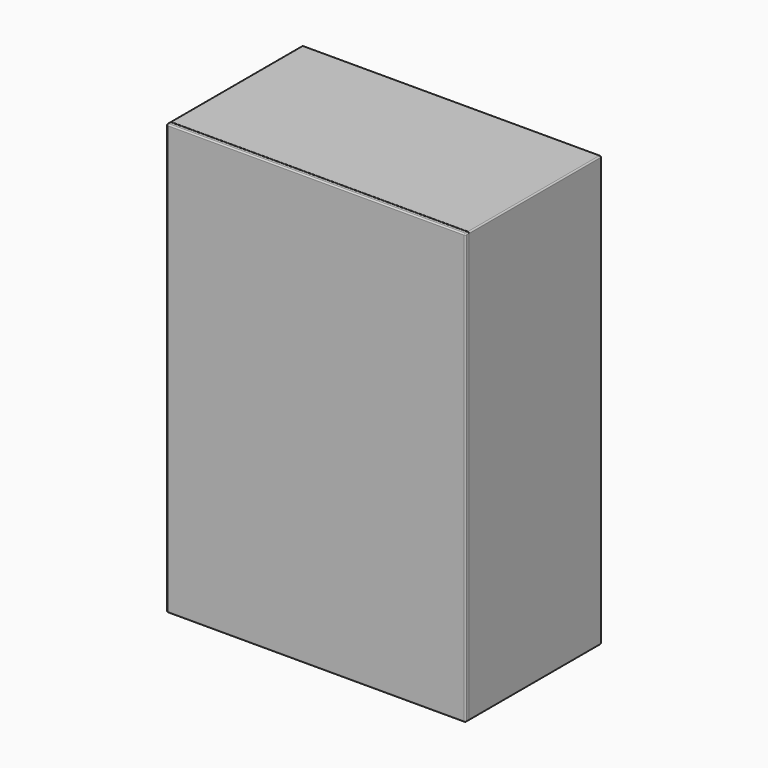
from build123d import *

# Parameters (mm, degrees)
F0_W      = 69.5
F0_H      = 100
F1_DEPTH  = 39.5
F1_FACE_W = 69.5
F1_FACE_H = 100
F2_DEPTH  = 1
F3_T      = -1
F4_W      = 69.5
F4_H      = 1
F5_DEPTH  = 100
F6_R      = 0.3
F7_R      = 0.3
F7_2_R    = 0.3


with BuildPart() as f1:
    # F0 (on Front) → F1 (new body)
    with BuildSketch(Plane.XZ):
        with Locations((48.187214, 50)):
            Rectangle(F0_W, F0_H)
    extrude(amount=F1_DEPTH)

    # F1_face (on face) → F2 (cut)
    with BuildSketch(Plane(origin=(48.187214, 0, 50), x_dir=(1, 0, 0), z_dir=(0, 1, 0))):
        Rectangle(F1_FACE_W, F1_FACE_H)
    extrude(amount=-F2_DEPTH, mode=Mode.SUBTRACT)

    # F3
    f3_openings = [f1.faces().sort_by_distance(p)[0] for p in [
        (48.187214, -39.5, 50),
    ]]
    offset(amount=F3_T, openings=f3_openings)

    # F6
    f6_edges = [f1.edges().sort_by_distance(p)[0] for p in [
        (82.937214, -20.25, 100),
    ]]
    fillet(f6_edges, radius=F6_R)

    # F7
    f7_edges = [f1.edges().sort_by_distance(p)[0] for p in [
        (48.037214, -1, 100),
        (13.437214, -20.25, 100),
        (13.437214, -1, 50),
        (82.937214, -20.25, 0),
        (13.437214, -20.25, 0),
        (48.187214, -1, 0),
        (82.937214, -1, 49.85),
    ]]
    fillet(f7_edges, radius=F7_R)


with BuildPart() as f5:
    # F4 (on Top) → F5 (new body)
    with BuildSketch(Plane.XY):
        with Locations((48.189588, -40.068087)):
            Rectangle(F4_W, F4_H)
    extrude(amount=F5_DEPTH)

    # F7#2
    f7_2_edges = [f5.edges().sort_by_distance(p)[0] for p in [
        (48.189588, -40.568087, 100),
        (13.439588, -40.568087, 50),
        (13.439588, -40.068087, 100),
        (82.939588, -40.068087, 100),
        (82.939588, -40.568087, 50),
        (48.189588, -40.568087, 0),
        (82.939588, -40.068087, 0),
        (13.439588, -40.068087, 0),
    ]]
    fillet(f7_2_edges, radius=F7_2_R)


solid = Compound([f1.part, f5.part])
